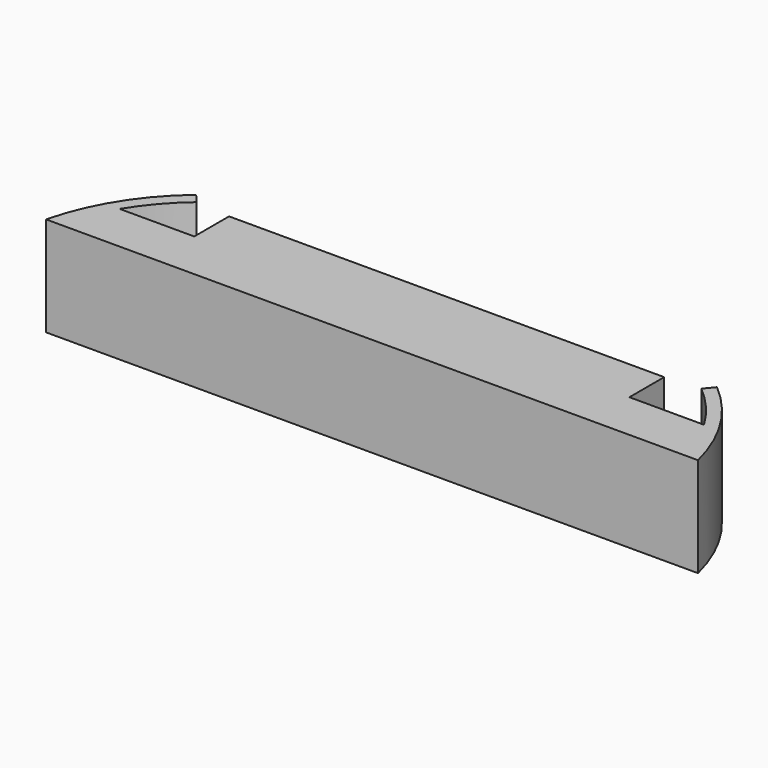
from build123d import *

# Parameters (mm, degrees)
F1_DEPTH = 5.08


with BuildPart() as f1:
    # F0 (on Top) → F1 (new body)
    with BuildSketch(Plane.XY):
        with BuildLine():
            Line((0, 4.7625), (0, 0))
            Line((0, 0), (16.647249, 0))
            ThreePointArc((16.647249, 0), (15.405472, 2.967188), (13.298387, 5.3975))
            Line((13.298387, 5.3975), (12.8905, 4.910825))
            ThreePointArc((12.8905, 4.910825), (14.004311, 3.809245), (14.9225, 2.54))
            Line((14.9225, 2.54), (11.1125, 2.54))
            Line((11.1125, 2.54), (11.1125, 4.7625))
            Line((11.1125, 4.7625), (0, 4.7625))
        make_face()
    extrude(amount=F1_DEPTH)

    # F2: F1 across face


with BuildPart() as f1_1:
    add(f1.part)
    add(f1.part.mirror(Plane(origin=(0, 2.38125, 2.54), x_dir=(0, -1, 0), z_dir=(-1, 0, 0))))


solid = f1_1.part
